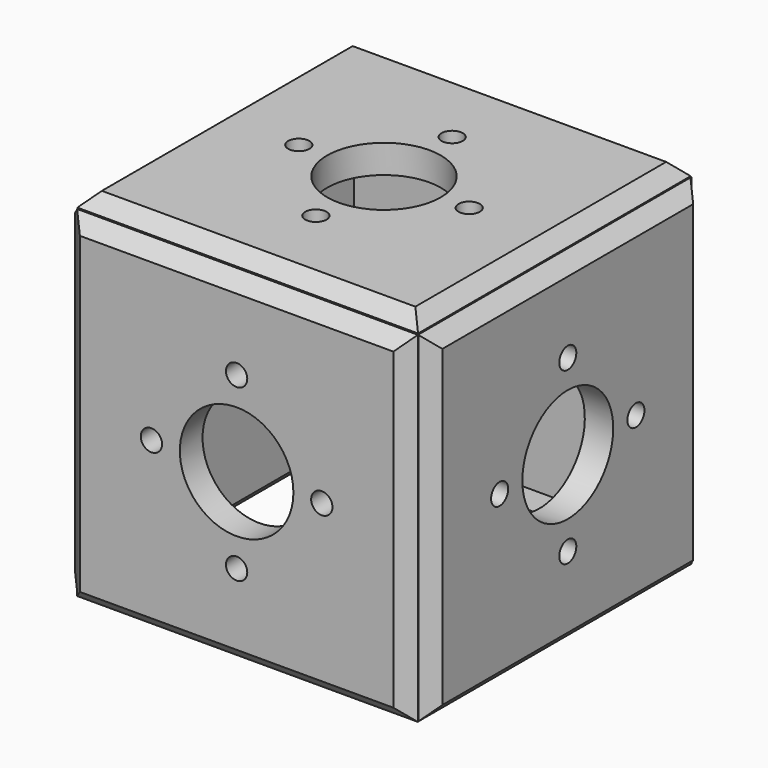
from build123d import *

# Parameters (mm, degrees)
F0_W      = 76.2
F0_H      = 76.2
F1_DEPTH  = 6.35
F2_SIZE2  = 3.048
F2_SIZE   = 3.048
F3_R      = 12.7
F4_DEPTH  = 6.35
F5_R      = 2.38125
F6_DEPTH  = 4.7625
F11_ANGLE = -90
F15_ANGLE = -90
F19_ANGLE = -90
F23_W     = 70.104
F23_H     = 2.1973088522
F24_DEPTH = 6.35
F25_W     = 70.104
F25_H     = 2.1973032
F26_DEPTH = 6.35


with BuildPart() as f1:
    # F0 (on Front) → F1 (new body)
    with BuildSketch(Plane.XZ):
        Rectangle(F0_W, F0_H)
    extrude(amount=F1_DEPTH)

    # F2
    f2_edges = [f1.edges().sort_by_distance(p)[0] for p in [
        (0, -6.35, 38.1),
        (0, 0, 38.1),
        (-38.1, -6.35, 0),
        (-38.1, 0, 0),
        (0, -6.35, -38.1),
        (0, 0, -38.1),
        (38.1, -6.35, 0),
        (38.1, 0, 0),
    ]]
    chamfer(f2_edges, length=F2_SIZE, length2=F2_SIZE2)

    # F3 (on face) → F4 (cut)
    with BuildSketch(Plane.XZ.offset(6.35)):
        Circle(F3_R)
    extrude(amount=-F4_DEPTH, mode=Mode.SUBTRACT)

    # F5 (on face) → F6 (cut)
    with BuildSketch(Plane.XZ.offset(6.35)):
        with Locations((0, 19.05)):
            Circle(F5_R)
        with Locations((19.05, 0)):
            Circle(F5_R)
        with Locations((0, -19.05)):
            Circle(F5_R)
        with Locations((-19.05, 0)):
            Circle(F5_R)
    extrude(amount=-F6_DEPTH, mode=Mode.SUBTRACT)


with BuildPart() as f1_1:
    # F7: moved
    add(f1.part.moved(Location((0, -34.925, 0))))


with BuildPart() as f8_1:
    # F8: instance of F1
    add(f1_1.part.mirror(Plane.XZ))


with BuildPart() as f10_1:
    # F10: instance of F8_1
    add(f8_1.part.mirror(Plane(origin=(0, 38.1, 39.878), x_dir=(1, 0, 0), z_dir=(0, 0, 1))))


with BuildPart() as f10_1_1:
    # F11: moved
    add(f10_1.part.rotate(Axis((0, 37.973, 38.1), (-1, 0, 0)), F11_ANGLE))


with BuildPart() as f10_1_2:
    # F12: moved
    add(f10_1_1.part.moved(Location((0, 3.6068, 0))))


with BuildPart() as f14_1:
    # F14: instance of F10_1
    add(f10_1_2.part.mirror(Plane(origin=(38.4556, -0.0762, 38.227), x_dir=(0, 1, 0), z_dir=(1, 0, 0))))


with BuildPart() as f14_1_1:
    # F15: moved
    add(f14_1.part.rotate(Axis((38.8112, -0.0762, 38.354), (0, -1, 0)), F15_ANGLE))


with BuildPart() as f14_1_2:
    # F16: moved
    add(f14_1_1.part.moved(Location((-0.762, 0, 0))))


with BuildPart() as f18_1:
    # F18: instance of F10_1
    add(f10_1_2.part.mirror(Plane(origin=(-38.4556, -0.0762, 38.227), x_dir=(0, -1, 0), z_dir=(-1, 0, 0))))


with BuildPart() as f18_1_1:
    # F19: moved
    add(f18_1.part.rotate(Axis((-38.8112, -0.0762, 38.354), (0, 1, 0)), F19_ANGLE))


with BuildPart() as f18_1_2:
    # F20: moved
    add(f18_1_1.part.moved(Location((0.762, 0, 0))))


with BuildPart() as f14_1_3:
    # F21: moved
    add(f14_1_2.part.moved(Location((0, 0, -0.254))))


with BuildPart() as f18_1_3:
    # F22: moved
    add(f18_1_2.part.moved(Location((0, 0, -0.254))))


with BuildPart() as f24:
    # F23 (on face) → F24 (new body)
    with BuildSketch(Plane(origin=(0, -34.925, 0), x_dir=(-1, 0, 0), z_dir=(0, 1, 0))):
        with Locations((0, -33.9533455739)):
            Rectangle(F23_W, F23_H)
    extrude(amount=F24_DEPTH)


with BuildPart() as f26:
    # F25 (on face) → F26 (new body)
    with BuildSketch(Plane.XZ.offset(-34.925)):
        with Locations((0, -33.9533484)):
            Rectangle(F25_W, F25_H)
    extrude(amount=F26_DEPTH)


solid = Compound([f1_1.part, f8_1.part, f10_1_2.part, f14_1_3.part, f18_1_3.part, f24.part, f26.part])
